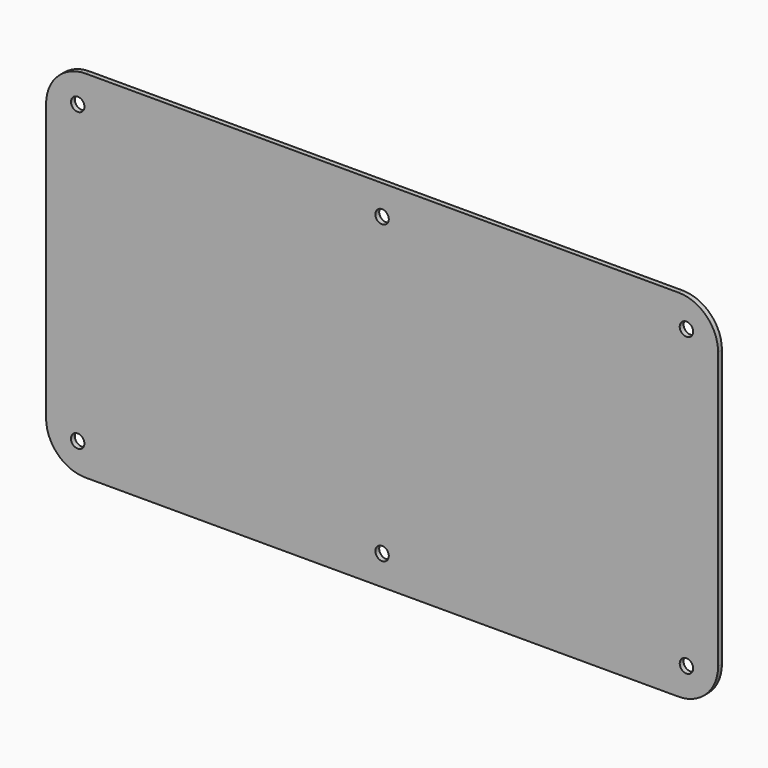
from build123d import *

# Parameters (mm, degrees)
F1_DEPTH = 1.524
F3_D     = 4.318
F4_R     = 2.159
F5_DEPTH = 0.0254


with BuildPart() as f1:
    # F0 (on Front) → F1 (new body)
    with BuildSketch(Plane.XZ):
        with BuildLine():
            Line((203.2, 0), (12.7, 0))
            ThreePointArc((12.7, 0), (3.7197438789, -3.7197438789), (0, -12.7))
            Line((0, -12.7), (0, -101.6))
            ThreePointArc((0, -101.6), (3.7197438789, -110.5802561211), (12.7, -114.3))
            Line((12.7, -114.3), (203.2, -114.3))
            ThreePointArc((203.2, -114.3), (212.1802561211, -110.5802561211), (215.9, -101.6))
            Line((215.9, -101.6), (215.9, -12.7))
            ThreePointArc((215.9, -12.7), (212.1802561211, -3.7197438789), (203.2, 0))
        make_face()
    extrude(amount=F1_DEPTH)

    # F3 (through all)
    with Locations(Plane.XZ.offset(1.524)):
        with Locations((10.16, -9.525), (107.95, -9.525), (205.74, -9.525), (205.74, -104.775), (107.95, -104.775), (10.16, -104.775)):
            Hole(F3_D / 2)

    # F4 (on face) → F5 (join)
    with BuildSketch(Plane(origin=(0, 0, 0), x_dir=(-1, 0, 0), z_dir=(0, 1, 0))):
        with BuildLine():
            Line((0, -101.6), (0, -12.7))
            ThreePointArc((0, -12.7), (-3.7197438789, -3.7197438789), (-12.7, 0))
            Line((-12.7, 0), (-203.2, 0))
            ThreePointArc((-203.2, 0), (-212.1802561211, -3.7197438789), (-215.9, -12.7))
            Line((-215.9, -12.7), (-215.9, -101.6))
            ThreePointArc((-215.9, -101.6), (-212.1802561211, -110.5802561211), (-203.2, -114.3))
            Line((-203.2, -114.3), (-12.7, -114.3))
            ThreePointArc((-12.7, -114.3), (-3.7197438789, -110.5802561211), (0, -101.6))
        make_face()
        with Locations((-205.74, -104.775)):
            Circle(F4_R, mode=Mode.SUBTRACT)
        with Locations((-107.95, -104.775)):
            Circle(F4_R, mode=Mode.SUBTRACT)
        with Locations((-10.16, -104.775)):
            Circle(F4_R, mode=Mode.SUBTRACT)
        with BuildLine():
            Line((-182.626, -22.225), (-33.274, -22.225))
            ThreePointArc((-33.274, -22.225), (-26.8082155928, -24.9032155928), (-24.13, -31.369))
            Line((-24.13, -31.369), (-24.13, -82.931))
            ThreePointArc((-24.13, -82.931), (-26.8082155928, -89.3967844072), (-33.274, -92.075))
            Line((-33.274, -92.075), (-182.626, -92.075))
            ThreePointArc((-182.626, -92.075), (-189.0917844072, -89.3967844072), (-191.77, -82.931))
            Line((-191.77, -82.931), (-191.77, -31.369))
            ThreePointArc((-191.77, -31.369), (-189.0917844072, -24.9032155928), (-182.626, -22.225))
        make_face(mode=Mode.SUBTRACT)
        with Locations((-205.74, -9.525)):
            Circle(F4_R, mode=Mode.SUBTRACT)
        with Locations((-107.95, -9.525)):
            Circle(F4_R, mode=Mode.SUBTRACT)
        with Locations((-10.16, -9.525)):
            Circle(F4_R, mode=Mode.SUBTRACT)
    extrude(amount=F5_DEPTH)


solid = f1.part
